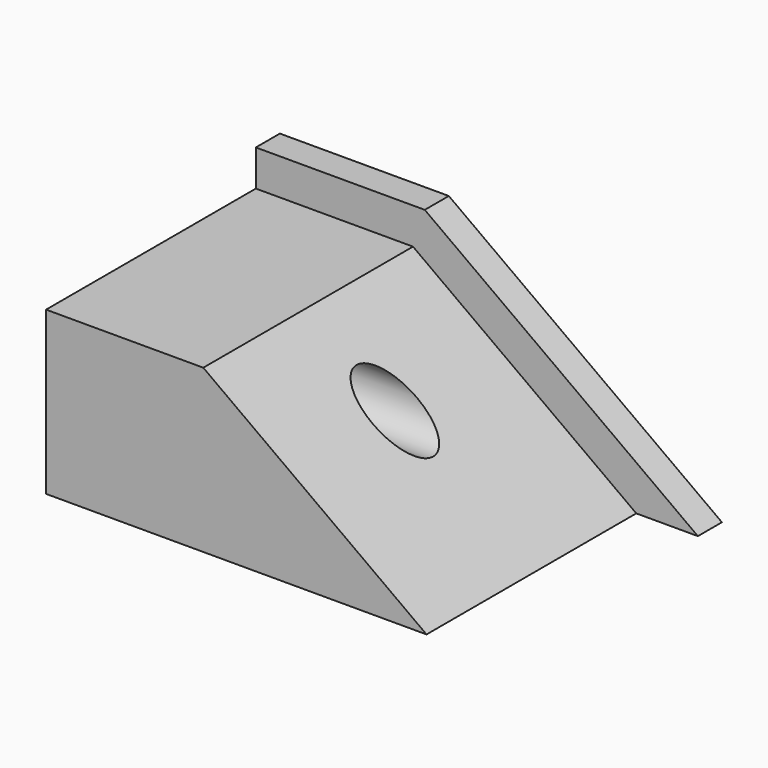
from build123d import *

# Parameters (mm, degrees)
F1_DEPTH = 80.7
F2_DEPTH = 8.3
F3_R     = 7.689637
F4_DEPTH = 105.067501


with BuildPart() as f1:
    # F0 (on Front) → F1 (new body)
    with BuildSketch(Plane.XZ):
        Polygon((-105.066501, 0), (0, 0), (-61.654873, 44.802453), (-105.066501, 44.802453), align=None)
    extrude(amount=F1_DEPTH)

    # F0 (on Front) → F2 (join)
    with BuildSketch(Plane.XZ):
        Polygon((-61.654873, 44.802453), (0, 0), (17.011136, 0), (-58.405232, 54.802453), (-105.066501, 54.802453), (-105.066501, 44.802453), align=None)
    extrude(amount=F2_DEPTH)

    # F3 (on Right) → F4 (cut, through all)
    with BuildSketch(Plane.YZ):
        with Locations((-44.5, 27.401227)):
            Circle(F3_R)
    extrude(amount=-F4_DEPTH, mode=Mode.SUBTRACT)


solid = f1.part
